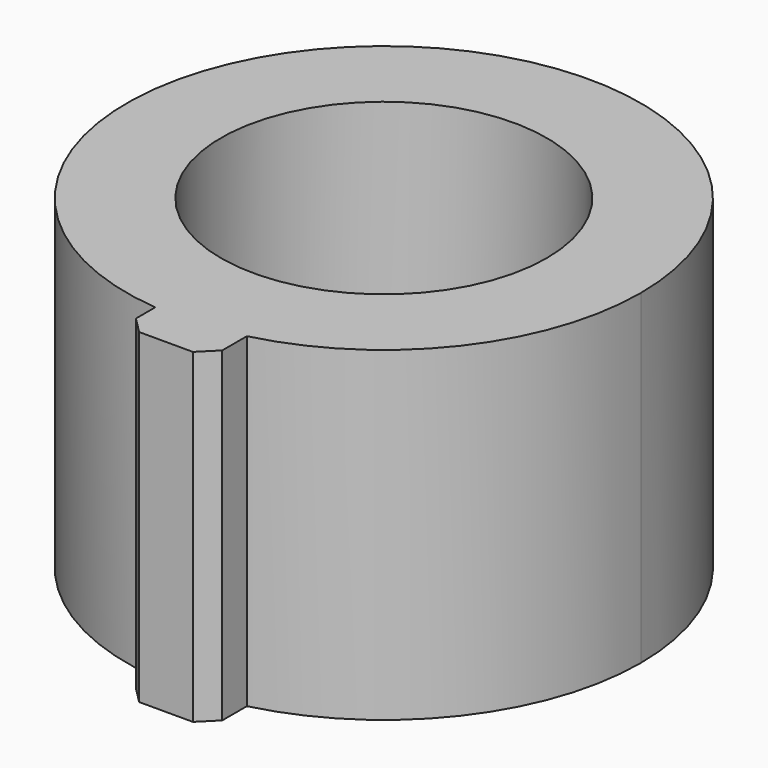
from build123d import *

# Parameters (mm, degrees)
F0_R     = 1.27
F1_DEPTH = 2.54
F2_SIZE  = 0.127


with BuildPart() as f1:
    # F0 (on Top) → F1 (new body)
    with BuildSketch(Plane.XY):
        with BuildLine():
            ThreePointArc((0.486832, -1.943784), (1.579688, -1.232837), (2.003821, 0))
            ThreePointArc((2.003821, 0), (-1.349406, 1.481352), (-0.186398, -1.995133))
            Line((-0.186398, -1.995133), (-0.186398, -1.640521))
            Line((-0.186398, -1.640521), (0.486832, -1.640521))
            Line((0.486832, -1.640521), (0.486832, -1.943784))
        make_face()
        Circle(F0_R, mode=Mode.SUBTRACT)
        with BuildLine():
            Line((-0.186398, -1.640521), (-0.186398, -1.995133))
            ThreePointArc((-0.186398, -1.995133), (0.152396, -1.998018), (0.486832, -1.943784))
            Line((0.486832, -1.943784), (0.486832, -1.640521))
            Line((0.486832, -1.640521), (-0.186398, -1.640521))
        make_face()
        with BuildLine():
            ThreePointArc((0.486832, -1.943784), (0.152396, -1.998018), (-0.186398, -1.995133))
            Line((-0.186398, -1.995133), (-0.186398, -2.310709))
            Line((-0.186398, -2.310709), (0.486832, -2.310709))
            Line((0.486832, -2.310709), (0.486832, -1.943784))
        make_face()
    extrude(amount=F1_DEPTH)

    # F2
    f2_edges = [f1.edges().sort_by_distance(p)[0] for p in [
        (-0.186398, -2.310709, 1.27),
        (0.486832, -2.310709, 1.27),
    ]]
    chamfer(f2_edges, length=F2_SIZE)


solid = f1.part
